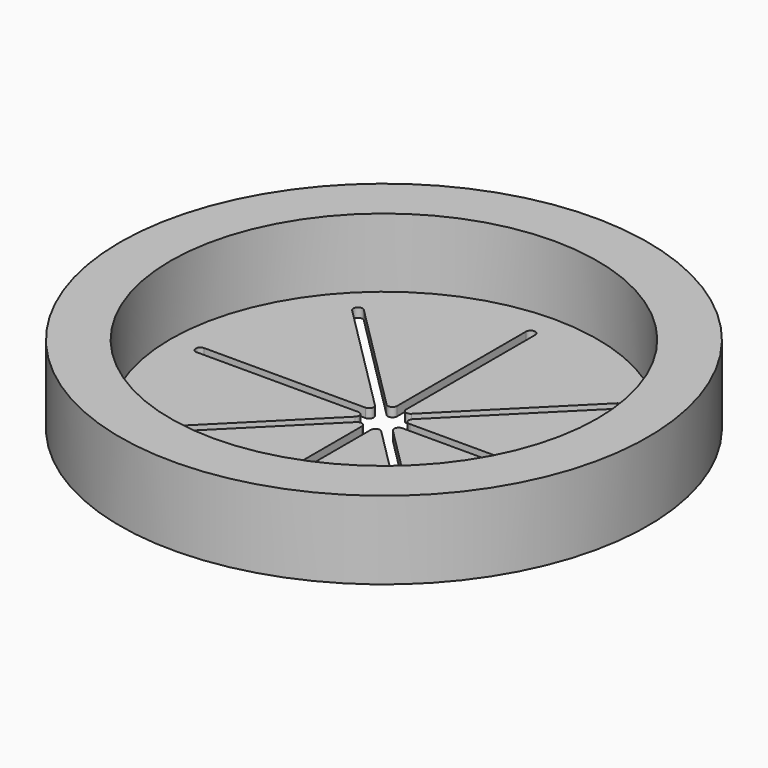
from build123d import *

# Parameters (mm, degrees)
F3_DEPTH = 25.4


with BuildPart() as f1:
    # F0 (on Front) → F1 (revolve)
    with BuildSketch(Plane.XZ):
        Polygon((-123.19, 0), (0, 0), (0, 5.08), (-118.11, 5.08), (-118.11, 43.18), (-146.05, 43.18), (-146.05, 0), (-140.97, 0), (-140.97, 38.1), (-123.19, 38.1), align=None)
    revolve(axis=Axis((0, 0, 2.54), (0, 0, -1)))

    # F2 (on face) → F3 (cut)
    with BuildSketch(Plane.XY.offset(5.08)):
        with BuildLine():
            Line((2.54, 12.264205), (2.54, 101.426891))
            Line((2.54, 101.426891), (2.54, 101.6))
            ThreePointArc((2.54, 101.6), (0, 104.05492), (-2.54, 101.6))
            Line((-2.54, 101.6), (-2.54, 101.426891))
            Line((-2.54, 101.426891), (-2.54, 12.264205))
            ThreePointArc((-2.54, 12.264205), (-4.107984, 9.917551), (-6.876051, 10.468154))
            Line((-6.876051, 10.468154), (-69.923591, 73.515693))
            Line((-69.923591, 73.515693), (-70.045998, 73.6381))
            ThreePointArc((-70.045998, 73.6381), (-73.577939, 73.577939), (-73.6381, 70.045998))
            Line((-73.6381, 70.045998), (-73.515693, 69.923591))
            Line((-73.515693, 69.923591), (-10.468154, 6.876051))
            ThreePointArc((-10.468154, 6.876051), (-9.917551, 4.107984), (-12.264205, 2.54))
            Line((-12.264205, 2.54), (-101.426891, 2.54))
            Line((-101.426891, 2.54), (-101.6, 2.54))
            ThreePointArc((-101.6, 2.54), (-104.05492, 0), (-101.6, -2.54))
            Line((-101.6, -2.54), (-101.426891, -2.54))
            Line((-101.426891, -2.54), (-12.264205, -2.54))
            ThreePointArc((-12.264205, -2.54), (-9.917551, -4.107984), (-10.468154, -6.876051))
            Line((-10.468154, -6.876051), (-73.515693, -69.923591))
            Line((-73.515693, -69.923591), (-73.6381, -70.045998))
            ThreePointArc((-73.6381, -70.045998), (-73.577939, -73.577939), (-70.045998, -73.6381))
            Line((-70.045998, -73.6381), (-69.923591, -73.515693))
            Line((-69.923591, -73.515693), (-6.876051, -10.468154))
            ThreePointArc((-6.876051, -10.468154), (-4.107984, -9.917551), (-2.54, -12.264205))
            Line((-2.54, -12.264205), (-2.54, -101.426891))
            Line((-2.54, -101.426891), (-2.54, -101.6))
            ThreePointArc((-2.54, -101.6), (0, -104.05492), (2.54, -101.6))
            Line((2.54, -101.6), (2.54, -101.426891))
            Line((2.54, -101.426891), (2.54, -12.264205))
            ThreePointArc((2.54, -12.264205), (4.107984, -9.917551), (6.876051, -10.468154))
            Line((6.876051, -10.468154), (69.923591, -73.515693))
            Line((69.923591, -73.515693), (70.045998, -73.6381))
            ThreePointArc((70.045998, -73.6381), (73.577939, -73.577939), (73.6381, -70.045998))
            Line((73.6381, -70.045998), (73.515693, -69.923591))
            Line((73.515693, -69.923591), (10.468154, -6.876051))
            ThreePointArc((10.468154, -6.876051), (9.917551, -4.107984), (12.264205, -2.54))
            Line((12.264205, -2.54), (101.426891, -2.54))
            Line((101.426891, -2.54), (101.6, -2.54))
            ThreePointArc((101.6, -2.54), (104.05492, 0), (101.6, 2.54))
            Line((101.6, 2.54), (101.426891, 2.54))
            Line((101.426891, 2.54), (12.264205, 2.54))
            ThreePointArc((12.264205, 2.54), (9.917551, 4.107984), (10.468154, 6.876051))
            Line((10.468154, 6.876051), (73.515693, 69.923591))
            Line((73.515693, 69.923591), (73.6381, 70.045998))
            ThreePointArc((73.6381, 70.045998), (73.577939, 73.577939), (70.045998, 73.6381))
            Line((70.045998, 73.6381), (69.923591, 73.515693))
            Line((69.923591, 73.515693), (6.876051, 10.468154))
            ThreePointArc((6.876051, 10.468154), (4.107984, 9.917551), (2.54, 12.264205))
        make_face()
    extrude(amount=-F3_DEPTH, mode=Mode.SUBTRACT)


solid = f1.part
